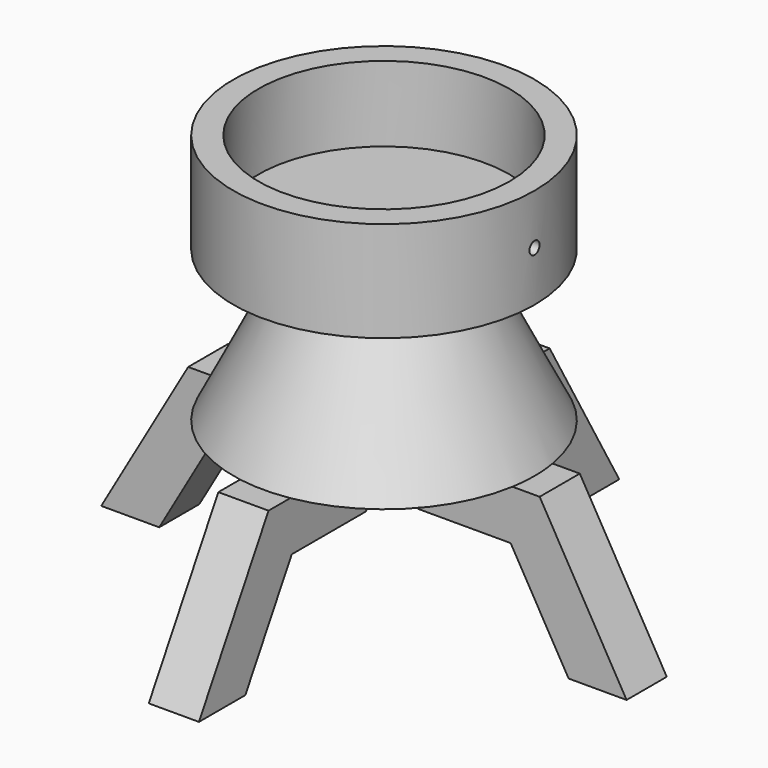
from build123d import *

# Parameters (mm, degrees)
F0_R      = 152.4
F2_R      = 76.2
F5_DEPTH  = 25.4
F6_COUNT  = 4
F2_R_2    = 152.4
F2_R_3    = 127
F7_DEPTH  = 25.4
F8_DEPTH  = 101.6
F10_R     = 6.35
F11_DEPTH = 76.2


with BuildPart() as f3:
    # F0 (on Top) → F3 section 0
    with BuildSketch(Plane.XY):
        Circle(F0_R)
    # F2 (on offset) → F3 section 1
    with BuildSketch(Plane.XY.offset(152.4)):
        Circle(F2_R)
    loft()

    # F4 (on Front) → F5 (join, symmetric)
    with BuildSketch(Plane.XZ):
        Polygon((177.8, 0), (25.4, 0), (54.7293936748, -50.8), (148.4706063252, -50.8), (207.1293936748, -152.4), (265.7881810245, -152.4), align=None)
    extrude(amount=F5_DEPTH, both=True)

    # F6: F3 ×4 about axis
    f6_axis = Axis((0, 0, 38.1), (0, 0, 1))


with BuildPart() as f3_1:
    add(f3.part)
    for i in range(1, F6_COUNT):
        add(f3.part.rotate(f6_axis, i * 360 / F6_COUNT))

    # F2 (on offset) → F7 (join)
    with BuildSketch(Plane.XY.offset(152.4)):
        Circle(F2_R_2)
        Circle(F2_R_3, mode=Mode.SUBTRACT)
        Circle(F2_R_3)
        Circle(F2_R, mode=Mode.SUBTRACT)
        Circle(F2_R)
    extrude(amount=F7_DEPTH)

    # F2 (on offset) → F8 (join)
    with BuildSketch(Plane.XY.offset(152.4)):
        Circle(F2_R_2)
        Circle(F2_R_3, mode=Mode.SUBTRACT)
    extrude(amount=F8_DEPTH)

    # F10 (on offset) → F11 (cut)
    with BuildSketch(Plane.YZ.offset(152.4)):
        with Locations((0, 203.2)):
            Circle(F10_R)
    extrude(amount=-F11_DEPTH, mode=Mode.SUBTRACT)


solid = f3_1.part
